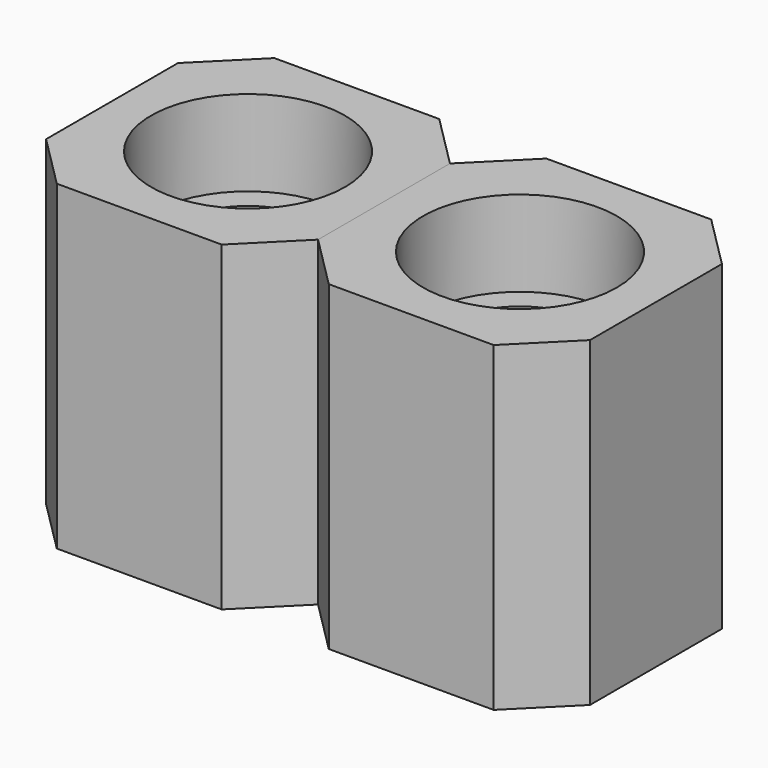
from build123d import *

# Parameters (mm, degrees)
SKETCH005_R      = 0.675
EXTRUDE010_DEPTH = 1.68
SKETCH023_R      = 0.25
SKETCH024_R      = 0.675
SKETCH025_R      = 0.675
SKETCH026_R      = 0.75
SKETCH027_R      = 0.75
SKETCH006_R      = 0.905
EXTRUDE011_DEPTH = 0.8
SKETCH022_W      = 2.54
SKETCH022_H      = 2.54
EXTRUDE013_DEPTH = 3
CHAMFER003_SIZE  = 0.5
ARRAY004_X_COUNT = 2
ARRAY004_X_PITCH = 2.54


with BuildPart() as extrude010:
    # Sketch005 → Extrude010 (new body)
    with BuildSketch(Plane.XY.offset(2.2)):
        Circle(SKETCH005_R)
    extrude(amount=EXTRUDE010_DEPTH)


with BuildPart() as loft006:
    # Sketch023 → Loft006 section 0
    with BuildSketch(Plane.XY):
        Circle(SKETCH023_R)
    # Sketch024 → Loft006 section 1
    with BuildSketch(Plane.XY.offset(0.375)):
        Circle(SKETCH024_R)
    # Sketch025 → Loft006 section 2
    with BuildSketch(Plane.XY.offset(2.05)):
        Circle(SKETCH025_R)
    # Sketch026 → Loft006 section 3
    with BuildSketch(Plane.XY.offset(2.15)):
        Circle(SKETCH026_R)
    # Sketch027 → Loft006 section 4
    with BuildSketch(Plane.XY.offset(2.2)):
        Circle(SKETCH027_R)
    loft(ruled=True)


with BuildPart() as fusion004:
    # Sketch006 → Extrude011 (new body)
    with BuildSketch(Plane.XY.offset(2.9)):
        Circle(SKETCH006_R)
    extrude(amount=EXTRUDE011_DEPTH)


with BuildPart() as fusion004_1:
    # Extrude011 placement: moved
    add(fusion004.part.moved(Location((0, 0, 0.98))))

    # Fusion004: union Extrude010, Loft006
    add(extrude010.part)
    add(loft006.part)


with BuildPart() as array004:
    # Sketch022 → Extrude013 (new body)
    with BuildSketch(Plane.XY):
        Rectangle(SKETCH022_W, SKETCH022_H)
    extrude(amount=EXTRUDE013_DEPTH)

    # Chamfer003
    chamfer003_edges = [array004.edges().sort_by_distance(p)[0] for p in [
        (-1.27, 1.27, 1.5),
        (1.27, 1.27, 1.5),
        (1.27, -1.27, 1.5),
        (-1.27, -1.27, 1.5),
    ]]
    chamfer(chamfer003_edges, length=CHAMFER003_SIZE)


with BuildPart() as array004_1:
    # Chamfer003 placement: moved
    add(array004.part.moved(Location((0, 0, 1.68))))

    # Cut007: cut Fusion004
    add(fusion004_1.part, mode=Mode.SUBTRACT)


with BuildPart() as array004_copy1:
    # Array004 X: instance of Array004
    add(array004_1.part.moved(Location(Vector(1, 0, 0) * (1 * ARRAY004_X_PITCH))))


solid = Compound([array004_1.part, array004_copy1.part])
